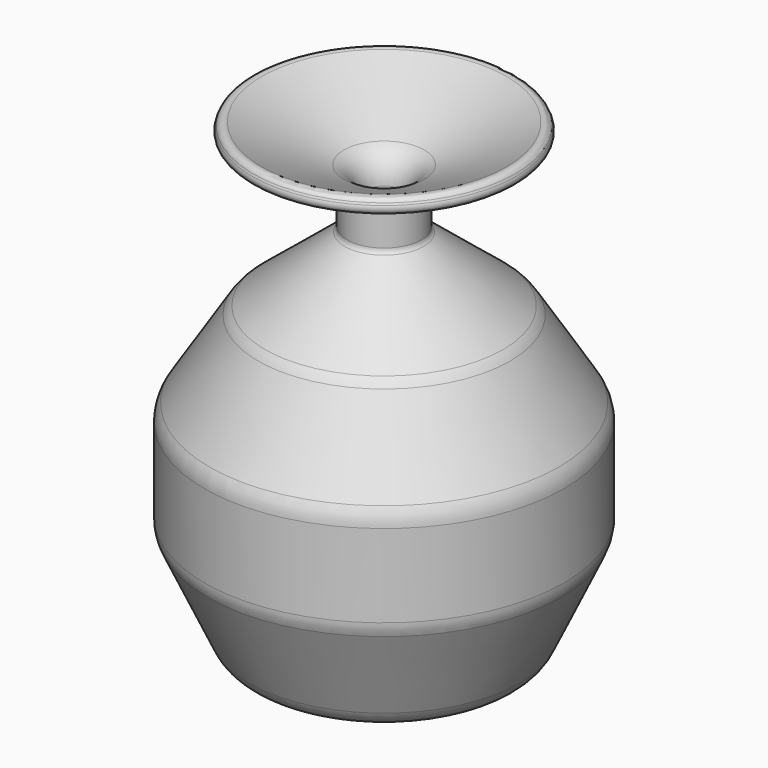
from build123d import *


with BuildPart() as f1:
    # F0 (on Front) → F1 (revolve)
    with BuildSketch(Plane.XZ):
        with BuildLine():
            Line((0, 2.547863), (0, 0))
            Line((0, 0), (16.226835, 0))
            ThreePointArc((16.226835, 0), (18.921603, 0.788323), (20.766632, 2.90471))
            Line((20.766632, 2.90471), (27.035053, 16.486292))
            ThreePointArc((27.035053, 16.486292), (27.37885, 17.508965), (27.495256, 18.581582))
            Line((27.495256, 18.581582), (27.495256, 31.280799))
            ThreePointArc((27.495256, 31.280799), (27.298803, 32.668578), (26.724884, 33.947303))
            Line((26.724884, 33.947303), (19.262109, 45.784812))
            ThreePointArc((19.262109, 45.784812), (18.779012, 46.429426), (18.198669, 46.988095))
            Line((18.198669, 46.988095), (6.045132, 56.931896))
            ThreePointArc((6.045132, 56.931896), (5.7747, 57.277623), (5.678369, 57.705853))
            Line((5.678369, 57.705853), (5.678369, 62.568479))
            ThreePointArc((5.678369, 62.568479), (5.836376, 63.107967), (6.260463, 63.476969))
            Line((6.260463, 63.476969), (19.712953, 69.665116))
            ThreePointArc((19.712953, 69.665116), (20.232951, 70.226711), (20.203537, 70.991513))
            Line((20.203537, 70.991513), (20.070497, 71.280731))
            ThreePointArc((20.070497, 71.280731), (19.508902, 71.800729), (18.744101, 71.771315))
            Line((18.744101, 71.771315), (6.135501, 65.971357))
            ThreePointArc((6.135501, 65.971357), (4.015063, 64.126345), (3.22503, 61.428905))
            Line((3.22503, 61.428905), (3.22503, 57.928184))
            ThreePointArc((3.22503, 57.928184), (3.648235, 55.91499), (4.846211, 54.242593))
            Line((4.846211, 54.242593), (18.341495, 41.870598))
            Line((18.341495, 41.870598), (25.790296, 27.319454))
            Line((25.790296, 27.319454), (24.231244, 14.847045))
            Line((24.231244, 14.847045), (19.22328, 5.237167))
            ThreePointArc((19.22328, 5.237167), (17.382168, 3.272732), (14.789242, 2.547863))
            Line((14.789242, 2.547863), (0, 2.547863))
        make_face()
    revolve(axis=Axis((0, 0, 1.273931), (0, 0, -1)))


solid = f1.part
